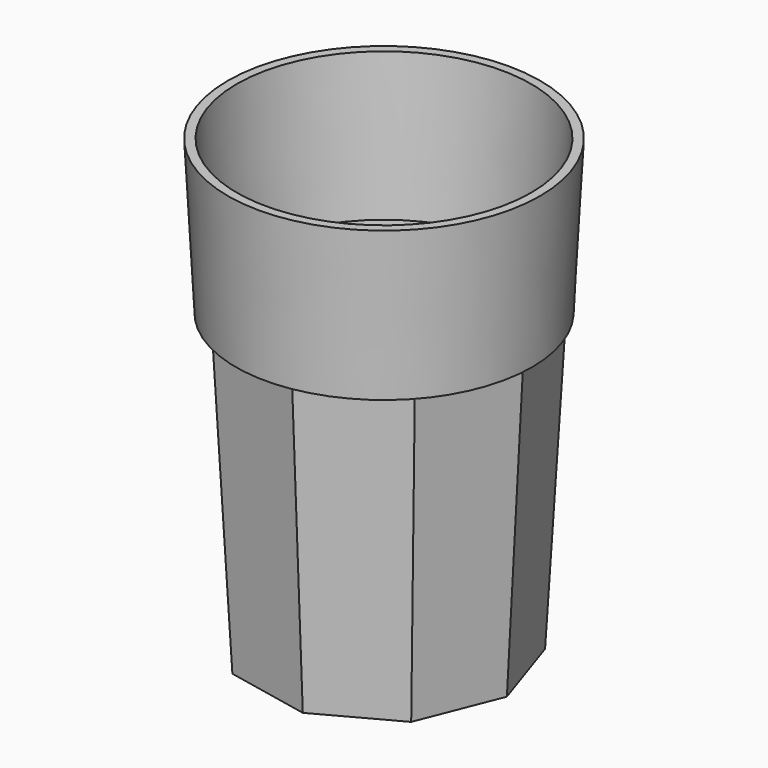
from build123d import *

# Parameters (mm, degrees)
F1_DEPTH = 83
F1_TAPER = 3
F2_R     = 41.5426365129
F3_DEPTH = 43
F3_TAPER = -3
F4_T     = -2.5


with BuildPart() as f1:
    # F0 (on Top) → F1 (new body)
    with BuildSketch(Plane.XY):
        Polygon((29.8341157565, -26.5041046934), (39.8907686935, -1.126322166), (31.2820876222, 24.7784790206), (8.0361700908, 39.0891544913), (-18.9699607381, 35.109580148), (-37.0998361101, 14.7018430539), (-37.8702858474, -12.5850497979), (-20.9208079553, -33.983257982), (5.8177484879, -39.4803220745), align=None)
    extrude(amount=-F1_DEPTH, taper=F1_TAPER)

    # F2 (on Top) → F3 (join)
    with BuildSketch(Plane.XY):
        Circle(F2_R)
    extrude(amount=F3_DEPTH, taper=F3_TAPER)

    # F4
    f4_openings = [f1.faces().sort_by_distance(p)[0] for p in [
        (0, 0, 43),
    ]]
    offset(amount=F4_T, openings=f4_openings, kind=Kind.INTERSECTION)


solid = f1.part
